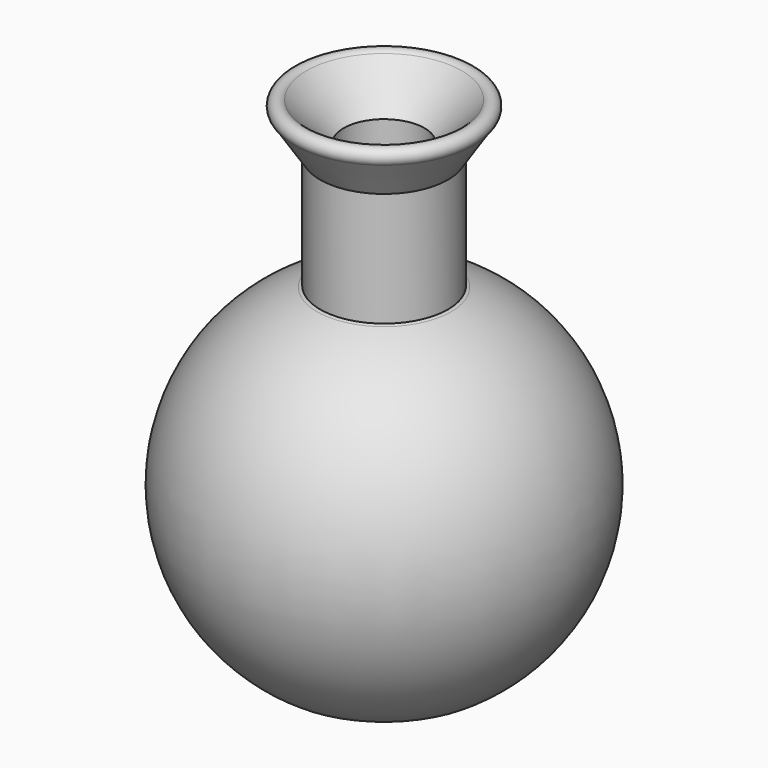
from build123d import *


with BuildPart() as f1:
    # F0 (on Front) → F1 (revolve)
    with BuildSketch(Plane.XZ):
        with BuildLine():
            Line((8.928908, 24.418735), (8.928908, 40.355706))
            Line((8.928908, 40.355706), (12.376329, 45.658493))
            ThreePointArc((12.376329, 45.658493), (12.49972, 47.305235), (10.848541, 47.329496))
            Line((10.848541, 47.329496), (5.64668, 41.965365))
            Line((5.64668, 41.965365), (5.64668, 22.296076))
            ThreePointArc((5.64668, 22.296076), (22.465353, 4.930304), (14.464364, -17.882455))
            Line((14.464364, -17.882455), (-0.002177, -17.882455))
            Line((-0.002177, -17.882455), (-0.002177, -21.882455))
            Line((-0.002177, -21.882455), (14.041302, -21.882455))
            ThreePointArc((14.041302, -21.882455), (25.866741, 2.629011), (9.351531, 24.260026))
            Line((9.351531, 24.260026), (8.928908, 24.418735))
        make_face()
    revolve(axis=Axis((-0.002177, 0, -19.882455), (0, 0, -1)))


solid = f1.part
